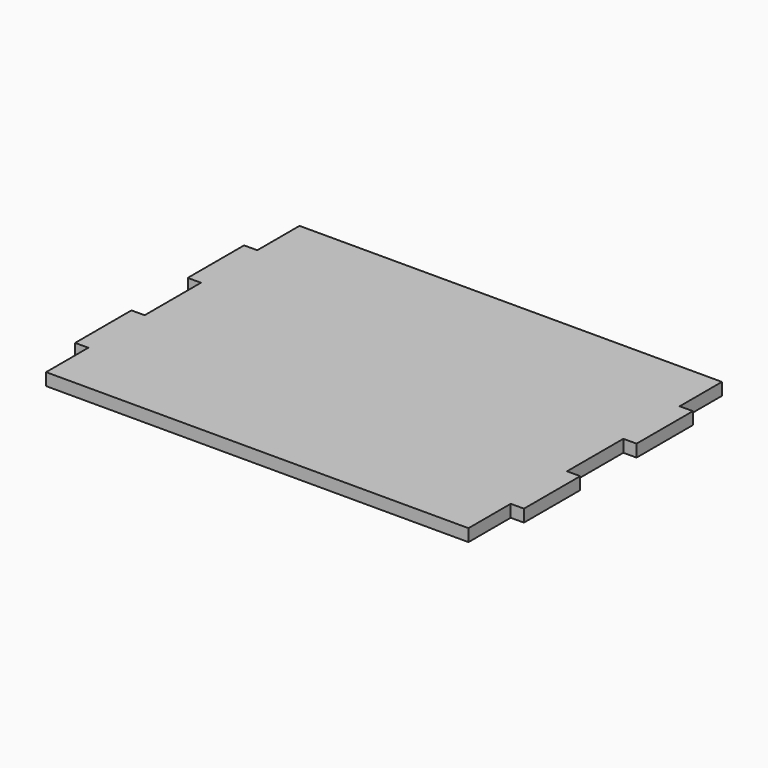
from build123d import *

# Parameters (mm, degrees)
F1_DEPTH = 17.78


with BuildPart() as f1:
    # F0 (on Top) → F1 (new body)
    with BuildSketch(Plane.XY):
        Polygon((609.6, 0), (0, 0), (0, -76.2), (-19.05, -76.2), (-19.05, -177.8), (0, -177.8), (0, -279.4), (-19.05, -279.4), (-19.05, -381), (0, -381), (0, -457.2), (609.6, -457.2), (609.6, -381), (628.65, -381), (628.65, -279.4), (609.6, -279.4), (609.6, -177.8), (628.65, -177.8), (628.65, -76.2), (609.6, -76.2), align=None)
    extrude(amount=F1_DEPTH)


solid = f1.part
